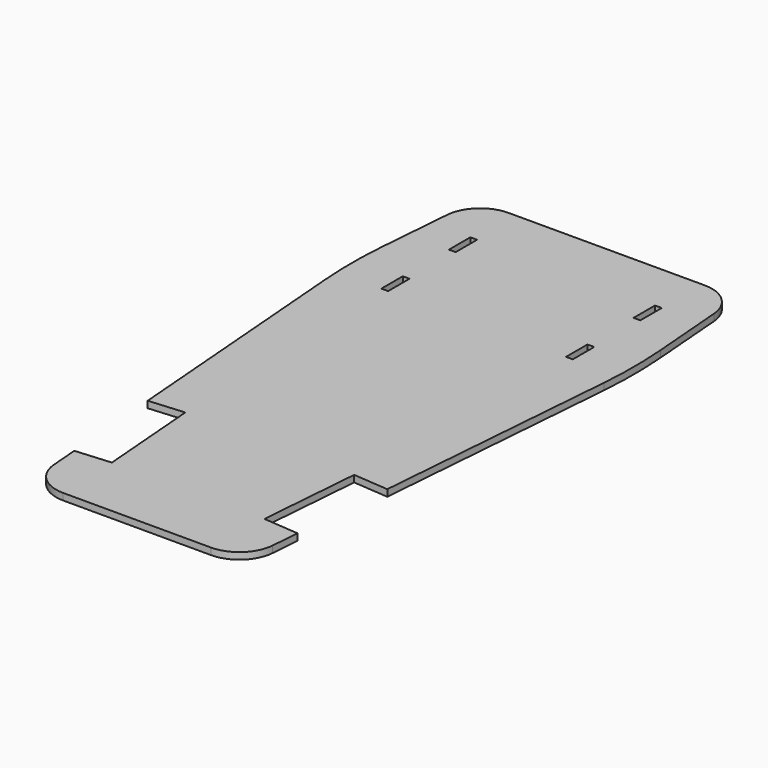
from build123d import *

# Parameters (mm, degrees)
F0_W     = 19.304
F0_H     = 76.454
F1_DEPTH = 19.05
F2_R     = 101.6
F3_R     = 1270
F5_DEPTH = 187.96


with BuildPart() as f1:
    # F0 (on Top) → F1 (new body)
    with BuildSketch(Plane.XY):
        Polygon((-304.8, 0), (0, 0), (304.8, 0), (406.4, 1270), (373.888, 1676.4), (0, 1676.4), (-373.888, 1676.4), (-406.4, 1270), align=None)
        with Locations((-263.652, 1251.83646)):
            Rectangle(F0_W, F0_H, mode=Mode.SUBTRACT)
        with Locations((-263.652, 1492.88246)):
            Rectangle(F0_W, F0_H, mode=Mode.SUBTRACT)
        with Locations((263.652, 1251.83646)):
            Rectangle(F0_W, F0_H, mode=Mode.SUBTRACT)
        with Locations((263.652, 1492.88246)):
            Rectangle(F0_W, F0_H, mode=Mode.SUBTRACT)
    extrude(amount=F1_DEPTH)

    # F2
    f2_edges = [f1.edges().sort_by_distance(p)[0] for p in [
        (-304.8, 0, 9.525),
        (304.8, 0, 9.525),
        (-373.888, 1676.4, 9.525),
        (373.888, 1676.4, 9.525),
    ]]
    fillet(f2_edges, radius=F2_R)

    # F3
    f3_edges = [f1.edges().sort_by_distance(p)[0] for p in [
        (-406.4, 1270, 9.525),
        (406.4, 1270, 9.525),
    ]]
    fillet(f3_edges, radius=F3_R)

    # F4 (on face) → F5 (cut)
    with BuildSketch(Plane.XY.offset(19.05)):
        Polygon((-217.7893998235, 182.3674977936), (-241.0829792523, 473.537240654), (-342.0368743239, 465.4609290482), (-318.743294895, 174.2911861878), align=None)
        Polygon((217.7893998235, 182.3674977936), (318.743294895, 174.2911861878), (342.0368743239, 465.4609290482), (241.0829792523, 473.537240654), align=None)
    extrude(amount=-F5_DEPTH, mode=Mode.SUBTRACT)


solid = f1.part
